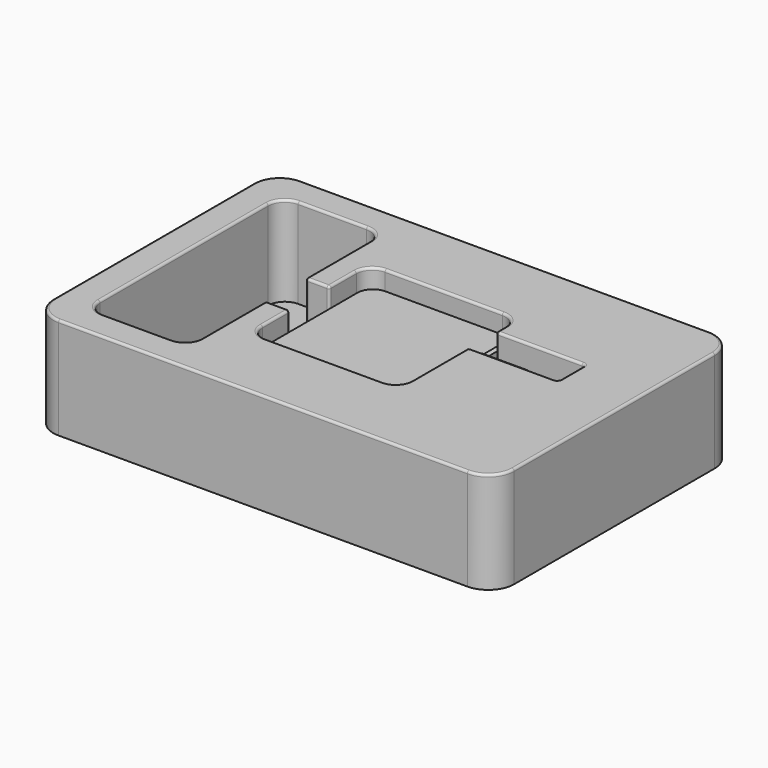
from build123d import *

# Parameters (mm, degrees)
SKETCH_W     = 62
SKETCH_H     = 62
PAD_DEPTH    = 15
FILLET_R     = 7.5
CHAMFER_SIZE = 1
PAD001_DEPTH = 19
FILLET001_R  = 1
SKETCH002_R  = 2
PAD002_DEPTH = 4
SKETCH003_R  = 1.7
PAD003_DEPTH = 6.5
SKETCH004_R  = 2
PAD004_DEPTH = 8
FILLET002_R  = 1.2
FILLET003_R  = 1.2
FILLET004_R  = 1
SKETCH005_R  = 2
PAD005_DEPTH = 15
SKETCH006_W  = 193
SKETCH006_H  = 126
PAD006_DEPTH = 21
POCKET_DEPTH = 100
FILLET005_R  = 10
THICKNESS_T  = 1


with BuildPart() as body:
    # Sketch → Pad (new body, symmetric)
    with BuildSketch(Plane.XY):
        Rectangle(SKETCH_W, SKETCH_H)
    extrude(amount=PAD_DEPTH, both=True)

    # Fillet
    fillet_edges = [body.edges().sort_by_distance(p)[0] for p in [
        (31, -31, 0),
        (-31, -31, 0),
        (31, 31, 0),
        (-31, 31, 0),
    ]]
    fillet(fillet_edges, radius=FILLET_R)

    # Chamfer
    chamfer_edges = [body.edges().sort_by_distance(p)[0] for p in [
        (0, 31, 15),
        (-28.803301, 28.803301, 15),
        (-31, 0, 15),
        (31, 0, 15),
        (28.803301, 28.803301, 15),
        (-28.803301, -28.803301, 15),
        (0, -31, 15),
        (28.803301, -28.803301, 15),
        (28.803301, -28.803301, -15),
        (0, -31, -15),
        (-28.803301, -28.803301, -15),
        (-31, 0, -15),
        (31, 0, -15),
        (28.803301, 28.803301, -15),
        (0, 31, -15),
        (-28.803301, 28.803301, -15),
    ]]
    chamfer(chamfer_edges, length=CHAMFER_SIZE)

    # Sketch001 (on Face13 of Chamfer) → Pad001 (join)
    with BuildSketch(Plane.YZ.offset(31)):
        Polygon((6, 11), (6, -11), (12.5, -17), (19, -11), (19, 11), (12.5, 17), align=None)
    extrude(amount=PAD001_DEPTH)

    # Fillet001
    fillet001_edges = [body.edges().sort_by_distance(p)[0] for p in [
        (40.5, 19, 11),
        (40.5, 6, 11),
        (40.5, 12.5, 17),
        (40.5, 6, -11),
        (40.5, 12.5, -17),
        (40.5, 19, -11),
    ]]
    fillet(fillet001_edges, radius=FILLET001_R)

    # Sketch002 (on Face12 of Fillet001) → Pad002 (join)
    with BuildSketch(Plane.YZ.offset(50)):
        with Locations((12.5, 9.5)):
            Circle(SKETCH002_R)
        with Locations((12.5, -9.5)):
            Circle(SKETCH002_R)
    extrude(amount=PAD002_DEPTH)

    # Sketch003 (on Face43 of Pad002) → Pad003 (join)
    with BuildSketch(Plane.YZ.offset(54)):
        with Locations((12.5, 9.5)):
            Circle(SKETCH003_R)
        with Locations((12.5, -9.5)):
            Circle(SKETCH003_R)
    extrude(amount=PAD003_DEPTH)

    # Sketch004 (on Face50 of Pad003) → Pad004 (join)
    with BuildSketch(Plane.YZ.offset(60.5)):
        with Locations((12.5, 9.5)):
            Circle(SKETCH004_R)
        with Locations((12.5, -9.5)):
            Circle(SKETCH004_R)
    extrude(amount=PAD004_DEPTH)

    # Fillet002
    fillet002_edges = [body.edges().sort_by_distance(p)[0] for p in [
        (68.5, 10.5, 9.5),
    ]]
    fillet(fillet002_edges, radius=FILLET002_R)

    # Fillet003
    fillet003_edges = [body.edges().sort_by_distance(p)[0] for p in [
        (68.5, 10.5, -9.5),
    ]]
    fillet(fillet003_edges, radius=FILLET003_R)

    # Cone → Cone (revolve)
    with BuildSketch(Plane(origin=(-31, 0, 0), x_dir=(0, -1, 0), z_dir=(0, 0, -1))):
        Polygon((0, 0), (4, 0), (3, 15), (0, 15), align=None)
    revolve(axis=Axis((-31, 0, 0), (-1, 0, 0)))

    # Fillet004
    fillet004_edges = [body.edges().sort_by_distance(p)[0] for p in [
        (-46, 3, 0),
    ]]
    fillet(fillet004_edges, radius=FILLET004_R)

    # Sketch005 (on Face4 of Fillet004) → Pad005 (join)
    with BuildSketch(Plane(origin=(-46, 0, 0), x_dir=(0, -1, 0), z_dir=(-1, 0, 0))):
        Circle(SKETCH005_R)
    extrude(amount=PAD005_DEPTH)


with BuildPart() as blister:
    # Sketch006 → Pad006 (new body, symmetric)
    with BuildSketch(Plane.XY):
        Rectangle(SKETCH006_W, SKETCH006_H)
    extrude(amount=PAD006_DEPTH, both=True)

    # Sketch007 → Pocket (cut)
    with BuildSketch(Plane.XY.offset(-17)):
        with BuildLine():
            Line((-24.810832, 32.560832), (24.810832, 32.560832))
            ThreePointArc((32.560832, 24.810832), (30.290909, 30.290909), (24.810832, 32.560832))
            Line((32.560832, 24.810832), (32.560832, 20.816874))
            Line((32.560832, 20.816874), (67.881206, 20.816874))
            ThreePointArc((70.391997, 18.306082), (69.656603, 20.08148), (67.881206, 20.816874))
            Line((70.391997, 18.306082), (70.391997, 6.731257))
            ThreePointArc((67.881206, 4.220466), (69.656603, 4.95586), (70.391997, 6.731257))
            Line((67.881206, 4.220466), (32.560832, 4.220466))
            Line((32.560832, 4.220466), (32.560832, -24.810832))
            ThreePointArc((24.810832, -32.560832), (30.290909, -30.290909), (32.560832, -24.810832))
            Line((24.810832, -32.560832), (-24.810832, -32.560832))
            ThreePointArc((-32.560832, -24.810832), (-30.290909, -30.290909), (-24.810832, -32.560832))
            Line((-32.560832, -24.810832), (-32.560832, -11.5))
            Line((-40.560832, -11.5), (-32.560832, -11.5))
            Line((-40.560832, -11.5), (-40.560832, -44.454724))
            ThreePointArc((-48.606108, -52.5), (-42.917238, -50.143593), (-40.560832, -44.454724))
            Line((-48.606108, -52.5), (-77.515555, -52.5))
            ThreePointArc((-85.560832, -44.454724), (-83.204425, -50.143593), (-77.515555, -52.5))
            Line((-85.560832, -44.454724), (-85.560832, 44.454724))
            ThreePointArc((-77.515555, 52.5), (-83.204425, 50.143593), (-85.560832, 44.454724))
            Line((-77.515555, 52.5), (-48.606108, 52.5))
            ThreePointArc((-40.560832, 44.454724), (-42.917238, 50.143593), (-48.606108, 52.5))
            Line((-40.560832, 44.454724), (-40.560832, 11.5))
            Line((-32.560832, 11.5), (-40.560832, 11.5))
            Line((-32.560832, 11.5), (-32.560832, 24.810832))
            ThreePointArc((-24.810832, 32.560832), (-30.290909, 30.290909), (-32.560832, 24.810832))
        make_face()
    extrude(amount=POCKET_DEPTH, mode=Mode.SUBTRACT)

    # Fillet005
    fillet005_edges = [blister.edges().sort_by_distance(p)[0] for p in [
        (96.5, -63, 0),
        (-96.5, -63, 0),
        (96.5, 63, 0),
        (-96.5, 63, 0),
    ]]
    fillet(fillet005_edges, radius=FILLET005_R)

    # Thickness
    thickness_openings = [blister.faces().sort_by_distance(p)[0] for p in [
        (0, 0, -21),
    ]]
    offset(amount=THICKNESS_T, openings=thickness_openings)


solid = Compound([body.part, blister.part])
